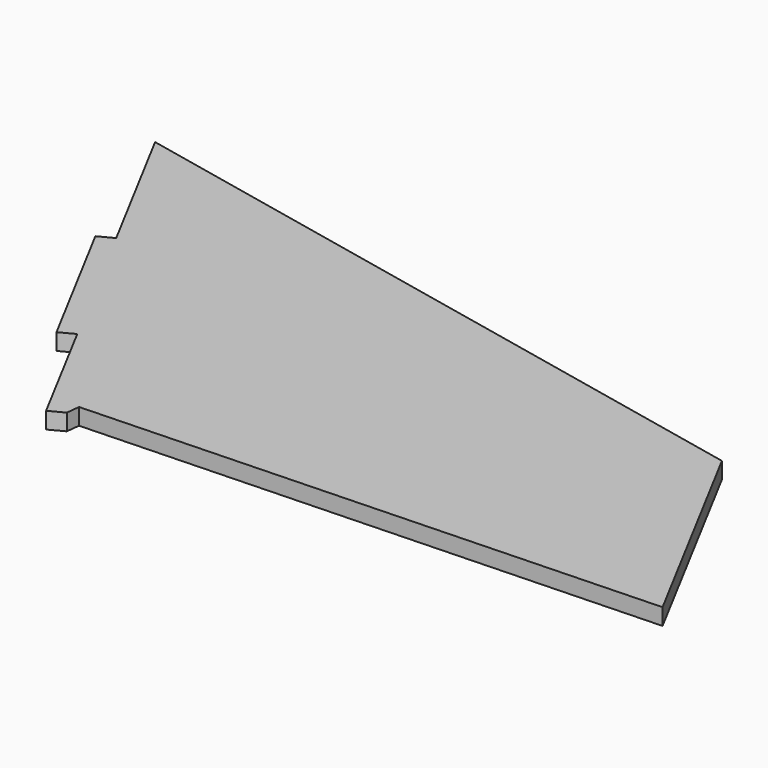
from build123d import *

# Parameters (mm, degrees)
PAD006_DEPTH = 5


with BuildPart() as part:
    # Sketch007 → Pad006 (new body)
    with BuildSketch(Plane.XY):
        with BuildLine():
            add(Edge.make_bspline(
                [(377.167323, -489.989598), (400.6976, -534.122097)],
                knots=[0, 0, 141.770589, 141.770589], degree=1))
            add(Edge.make_bspline(
                [(400.6976, -534.122097), (396.2526, -536.45043)],
                knots=[0, 0, 14.223924, 14.223924], degree=1))
            add(Edge.make_bspline(
                [(396.2526, -536.45043), (419.782877, -580.582929)],
                knots=[0, 0, 141.770589, 141.770589], degree=1))
            add(Edge.make_bspline(
                [(419.782877, -580.582929), (424.1926, -578.219318)],
                knots=[0, 0, 14.182383, 14.182383], degree=1))
            add(Edge.make_bspline(
                [(424.1926, -578.219318), (442.995655, -613.532373)],
                knots=[0, 0, 113.405908, 113.405908], degree=1))
            add(Edge.make_bspline(
                [(442.995655, -613.532373), (447.405377, -611.20404)],
                knots=[0, 0, 14.135417, 14.135417], degree=1))
            add(Edge.make_bspline(
                [(447.405377, -611.20404), (447.863988, -607.147096)],
                knots=[0, 0, 11.573245, 11.573245], degree=1))
            add(Edge.make_bspline(
                [(447.863988, -607.147096), (619.631484, -601.008762)],
                knots=[0, 0, 487.210807, 487.210807], degree=1))
            add(Edge.make_bspline(
                [(619.631484, -601.008762), (583.789263, -533.734042)],
                knots=[0, 0, 216.076491, 216.076491], degree=1))
            add(Edge.make_bspline(
                [(377.167323, -489.989598), (583.789263, -533.734042)],
                knots=[0, 0, 598.682295, 598.682295], degree=1))
        make_face()
    extrude(amount=PAD006_DEPTH)


solid = part.part
